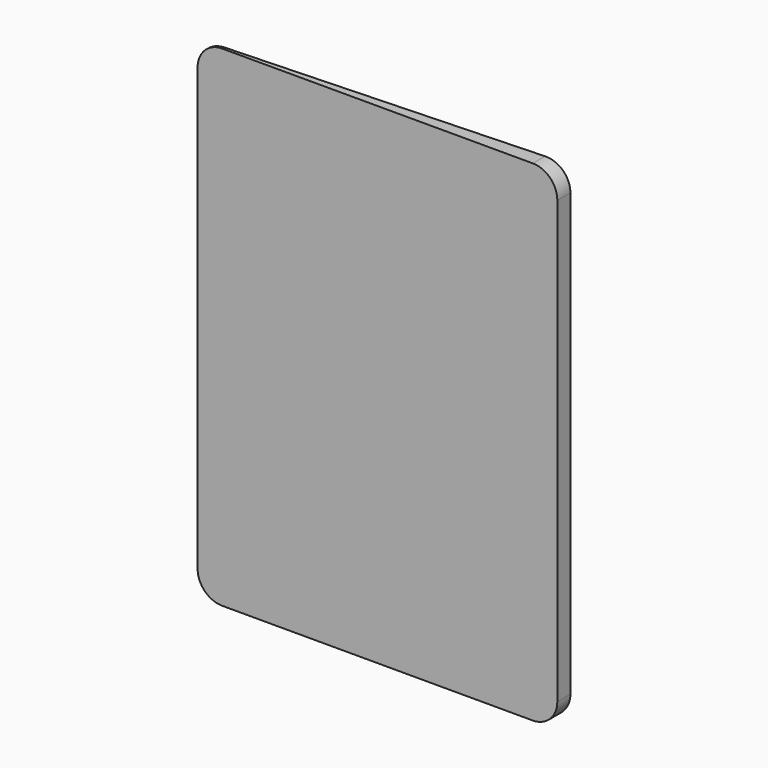
from build123d import *

# Parameters (mm, degrees)
F3_DEPTH = 300
F4_R     = 15
F5_R     = 15
F6_R     = 15
F7_R     = 15
F8_W     = 120.1740764081
F8_H     = 261.9301192462
F9_DEPTH = 1


with BuildPart() as f3:
    # F1 (on face) → F3 (new body)
    with BuildSketch(Plane.XY):
        Polygon((116.6105127335, -19.077671887), (-103.3894872665, -28.077671887), (-103.3894872665, -29.077671887), (116.6105127335, -29.077671887), align=None)
    extrude(amount=-F3_DEPTH)

    # F4
    f4_edges = [f3.edges().sort_by_distance(p)[0] for p in [
        (-103.389487, -28.577672, 0),
    ]]
    fillet(f4_edges, radius=F4_R)

    # F5
    f5_edges = [f3.edges().sort_by_distance(p)[0] for p in [
        (-103.389487, -28.577672, -300),
    ]]
    fillet(f5_edges, radius=F5_R)

    # F6
    f6_edges = [f3.edges().sort_by_distance(p)[0] for p in [
        (116.610513, -24.077672, -300),
    ]]
    fillet(f6_edges, radius=F6_R)

    # F7
    f7_edges = [f3.edges().sort_by_distance(p)[0] for p in [
        (116.610513, -24.077672, 0),
    ]]
    fillet(f7_edges, radius=F7_R)

    # F8 (on face) → F9 (cut)
    with BuildSketch(Plane(origin=(0.9739741727, -23.8082575553, 0), x_dir=(-0.999164272, -0.040874902, 0), z_dir=(-0.040874902, 0.999164272, 0))):
        with Locations((-25.0621605664, -153.7662539631)):
            Rectangle(F8_W, F8_H)
    extrude(amount=-F9_DEPTH, mode=Mode.SUBTRACT)


solid = f3.part
